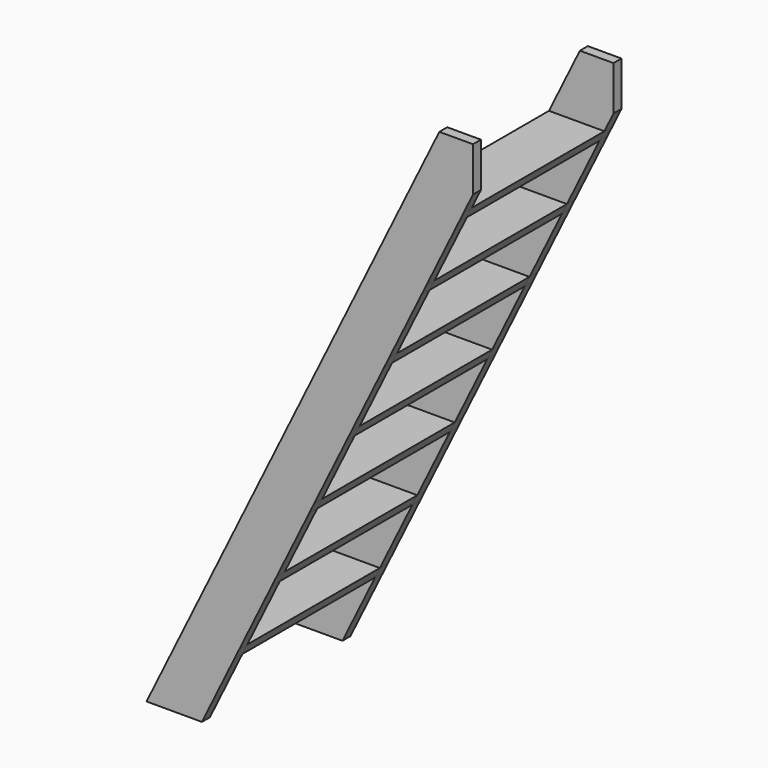
from build123d import *

# Parameters (mm, degrees)
F1_DEPTH = 500
F2_DEPTH = 30


with BuildPart() as f1:
    # F0 (on Front) → F1 (new body)
    with BuildSketch(Plane.XZ):
        Polygon((-219.554288, -700), (-204.83308, -670), (-371.919433, -670), (-386.640641, -700), align=None)
        Polygon((-106.69169, -470), (-91.970482, -440), (-259.056835, -440), (-273.778044, -470), align=None)
        Polygon((6.170907, -240), (20.892116, -210), (-146.194237, -210), (-160.915446, -240), align=None)
        Polygon((119.033505, -10), (133.754713, 20), (-33.33164, 20), (-48.052848, -10), align=None)
        Polygon((231.896103, 220), (246.617311, 250), (79.530958, 250), (64.809749, 220), align=None)
        Polygon((344.7587, 450), (359.479909, 480), (192.393555, 480), (177.672347, 450), align=None)
        Polygon((457.621298, 680), (472.342506, 710), (305.256153, 710), (290.534945, 680), align=None)
    extrude(amount=F1_DEPTH)


with BuildPart() as f2:
    # F0 (on Front) → F2 (new body)
    with BuildSketch(Plane.XZ):
        Polygon((500, 766.362548), (500, 900), (398.490473, 900), (365.339092, 832.441591), (305.256153, 710), (472.342506, 710), align=None)
        Polygon((457.621298, 680), (472.342506, 710), (305.256153, 710), (290.534945, 680), align=None)
        Polygon((359.479909, 480), (457.621298, 680), (290.534945, 680), (192.393555, 480), align=None)
        Polygon((344.7587, 450), (359.479909, 480), (192.393555, 480), (177.672347, 450), align=None)
        Polygon((246.617311, 250), (344.7587, 450), (177.672347, 450), (79.530958, 250), align=None)
        Polygon((231.896103, 220), (246.617311, 250), (79.530958, 250), (64.809749, 220), align=None)
        Polygon((133.754713, 20), (231.896103, 220), (64.809749, 220), (-33.33164, 20), align=None)
        Polygon((119.033505, -10), (133.754713, 20), (-33.33164, 20), (-48.052848, -10), align=None)
        Polygon((20.892116, -210), (119.033505, -10), (-48.052848, -10), (-146.194237, -210), align=None)
        Polygon((6.170907, -240), (20.892116, -210), (-146.194237, -210), (-160.915446, -240), align=None)
        Polygon((-91.970482, -440), (6.170907, -240), (-160.915446, -240), (-259.056835, -440), align=None)
        Polygon((-106.69169, -470), (-91.970482, -440), (-259.056835, -440), (-273.778044, -470), align=None)
        Polygon((-204.83308, -670), (-106.69169, -470), (-273.778044, -470), (-371.919433, -670), align=None)
        Polygon((-219.554288, -700), (-204.83308, -670), (-371.919433, -670), (-386.640641, -700), align=None)
        Polygon((-317.695677, -900), (-219.554288, -700), (-386.640641, -700), (-452.356585, -833.920957), (-484.78203, -900), align=None)
    extrude(amount=-F2_DEPTH)


with BuildPart() as f3_1:
    # F3: copy of F2
    add(f2.part.moved(Location((0, -530, 0))))


solid = Compound([f1.part, f2.part, f3_1.part])
